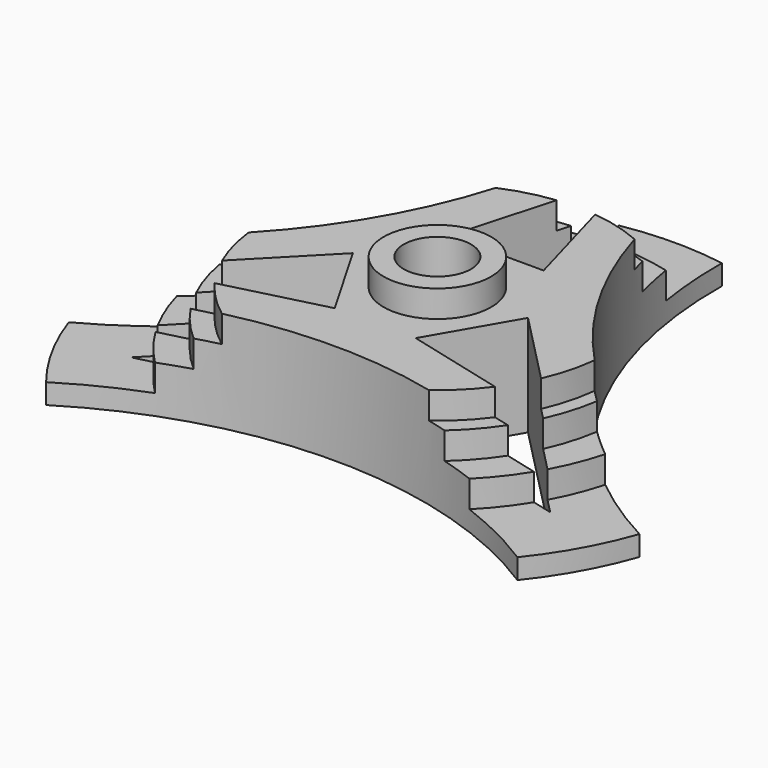
from build123d import *

# Parameters (mm, degrees)
SKETCH_R              = 45
PAD_DEPTH             = 3
SKETCH001_R           = 33
PAD001_DEPTH          = 4
SKETCH002_R           = 28.25
PAD002_DEPTH          = 4
SKETCH003_R           = 25.9
PAD003_DEPTH          = 4
SKETCH004_R           = 8
PAD004_DEPTH          = 4
SKETCH005_R           = 5
POCKET_DEPTH          = 19.001
SKETCH006_R           = 66
POCKET001_DEPTH       = 276.380098
POLARPATTERN_COUNT    = 3
POCKET002_DEPTH       = 246.643698
POLARPATTERN001_COUNT = 3


with BuildPart() as part:
    # Sketch → Pad (new body)
    with BuildSketch(Plane.XY):
        with Locations((0.22389, -1.005935)):
            Circle(SKETCH_R)
    extrude(amount=PAD_DEPTH)

    # Sketch001 (on Face3 of Pad) → Pad001 (join)
    with BuildSketch(Plane.XY.offset(3)):
        Circle(SKETCH001_R)
    extrude(amount=PAD001_DEPTH)

    # Sketch002 (on Face5 of Pad001) → Pad002 (join)
    with BuildSketch(Plane.XY.offset(7)):
        with Locations((-0.334541, -0.419601)):
            Circle(SKETCH002_R)
    extrude(amount=PAD002_DEPTH)

    # Sketch003 (on Face7 of Pad002) → Pad003 (join)
    with BuildSketch(Plane.XY.offset(11)):
        Circle(SKETCH003_R)
    extrude(amount=PAD003_DEPTH)

    # Sketch004 (on Face9 of Pad003) → Pad004 (join)
    with BuildSketch(Plane.XY.offset(15)):
        Circle(SKETCH004_R)
    extrude(amount=PAD004_DEPTH)

    # Sketch005 (on Face2 of Pad004) → Pocket (cut, through all)
    with BuildSketch(Plane(origin=(0, 0, 0), x_dir=(1, 0, 0), z_dir=(0, 0, -1))):
        Circle(SKETCH005_R)
    extrude(amount=-POCKET_DEPTH, mode=Mode.SUBTRACT)

    # Sketch006 (on Face2 of Pocket) → Pocket001 (cut, through all)
    with BuildSketch(Plane(origin=(0, 0, 0), x_dir=(1, 0, 0), z_dir=(0, 0, -1))):
        with Locations((0, 85)):
            Circle(SKETCH006_R)
    pocket001 = extrude(amount=-POCKET001_DEPTH, mode=Mode.SUBTRACT)

    # PolarPattern: Pocket001 ×3 about axis
    polarpattern_axis = Axis((0, 0, 0), (0, 0, -1))
    for i in range(1, POLARPATTERN_COUNT):
        add(pocket001.rotate(polarpattern_axis, i * 360 / POLARPATTERN_COUNT), mode=Mode.SUBTRACT)

    # Sketch007 (on Face2 of PolarPattern) → Pocket002 (cut, through all)
    with BuildSketch(Plane(origin=(0, 0, 0), x_dir=(1, 0, 0), z_dir=(0, 0, -1))):
        Polygon((-7, -11), (7, -11), (0, -36), align=None)
    pocket002 = extrude(amount=-POCKET002_DEPTH, mode=Mode.SUBTRACT)

    # PolarPattern001: Pocket002 ×3 about axis
    polarpattern001_axis = Axis((0, 0, 0), (0, 0, -1))
    for i in range(1, POLARPATTERN001_COUNT):
        add(pocket002.rotate(polarpattern001_axis, i * 360 / POLARPATTERN001_COUNT), mode=Mode.SUBTRACT)


solid = part.part
